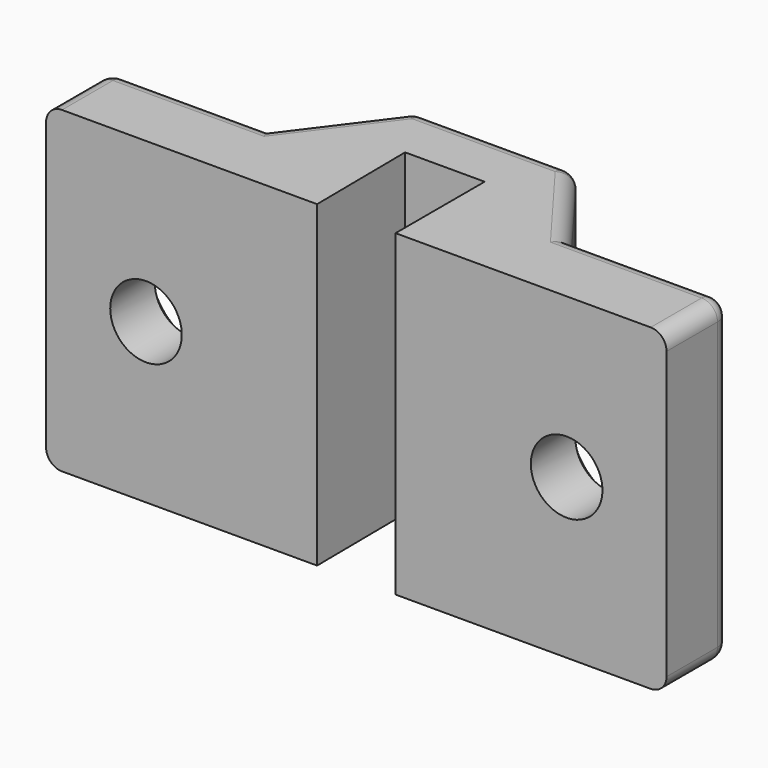
from build123d import *

# Parameters (mm, degrees)
PAD_DEPTH       = 20
SKETCH001_R     = 2.25
POCKET_DEPTH    = 7.001
SKETCH002_R     = 4
POCKET001_DEPTH = 5
CHAMFER_SIZE    = 1.5
FILLET_R        = 1
FILLET001_R     = 1


with BuildPart() as part:
    # Sketch (on XY_Plane of Origin) → Pad (new body)
    with BuildSketch(Plane.XY):
        Polygon((-19.5, 0), (-19.5, 5), (-9.5, 5), (-5, 11), (5, 11), (9.5, 5), (19.5, 5), (19.5, 0), (2.46556, 0), (2.46556, 7), (-2.53444, 7), (-2.46556, 0), align=None)
    extrude(amount=PAD_DEPTH)

    # Sketch001 → Pocket (cut, through all)
    with BuildSketch(Plane(origin=(0, 7, 0), x_dir=(-1, 0, 0), z_dir=(0, 1, 0))):
        with Locations((-13.21875, 10)):
            Circle(SKETCH001_R)
        with Locations((13.21875, 10)):
            Circle(SKETCH001_R)
    extrude(amount=-POCKET_DEPTH, mode=Mode.SUBTRACT)

    # Sketch002 (on Face6 of Pocket) → Pocket001 (cut)
    with BuildSketch(Plane(origin=(0, 5, 0), x_dir=(-1, 0, 0), z_dir=(0, 1, 0))):
        with Locations((-13.21875, 10)):
            Circle(SKETCH002_R)
        with Locations((13.21875, 10)):
            Circle(SKETCH002_R)
    extrude(amount=POCKET001_DEPTH, mode=Mode.SUBTRACT)

    # Chamfer
    chamfer_edges = [part.edges().sort_by_distance(p)[0] for p in [
        (-10.96875, 5, 10),
        (15.46875, 5, 10),
    ]]
    chamfer(chamfer_edges, length=CHAMFER_SIZE)

    # Fillet
    fillet_edges = [part.edges().sort_by_distance(p)[0] for p in [
        (-19.5, 5, 10),
        (-5, 11, 10),
        (5, 11, 10),
        (19.5, 5, 10),
    ]]
    fillet(fillet_edges, radius=FILLET_R)

    # Fillet001
    fillet001_edges = [part.edges().sort_by_distance(p)[0] for p in [
        (-14, 5, 20),
        (-14, 5, 0),
        (-7.4, 7.8, 0),
        (0, 11, 0),
        (7.4, 7.8, 0),
        (14, 5, 0),
        (14, 5, 20),
        (7.4, 7.8, 20),
        (0, 11, 20),
        (-7.4, 7.8, 20),
    ]]
    fillet(fillet001_edges, radius=FILLET001_R)


solid = part.part
